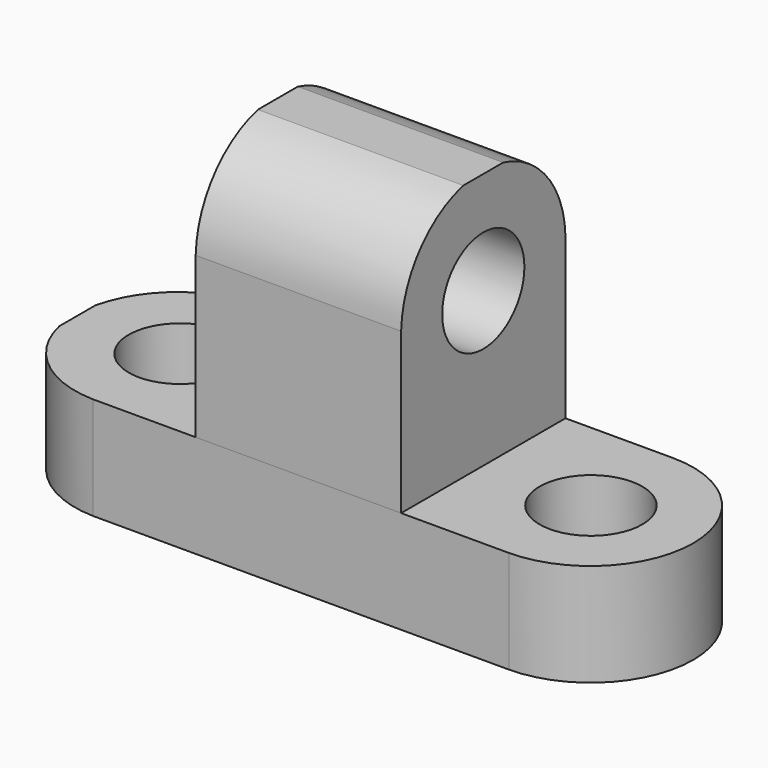
from build123d import *

# Parameters (mm, degrees)
F0_W     = 76.2
F0_H     = 12.7
F1_DEPTH = 25.4
F2_R     = 6.35
F3_DEPTH = 12.7
F4_W     = 25.4
F4_H     = 31.75
F5_DEPTH = 25.4
F6_R     = 6.35
F7_DEPTH = 25.4


with BuildPart() as f1:
    # F0 (on Front) → F1 (new body)
    with BuildSketch(Plane.XZ):
        with Locations((2.5796875684, 6.35)):
            Rectangle(F0_W, F0_H)
    extrude(amount=F1_DEPTH)

    # F2 (on face) → F3 (cut)
    with BuildSketch(Plane.XY.offset(12.7)):
        with Locations((-22.8203124316, -12.7)):
            Circle(F2_R)
        with Locations((27.9796875684, -12.7)):
            Circle(F2_R)
        with BuildLine():
            Line((40.6796875684, 0), (27.9796875684, 0))
            ThreePointArc((27.9796875684, 0), (40.6249785715, -12.7), (27.9796875684, -25.4))
            Line((27.9796875684, -25.4), (40.6796875684, -25.4))
            Line((40.6796875684, -25.4), (40.6796875684, 0))
        make_face()
        with BuildLine():
            ThreePointArc((-35.5203124316, -9.9125084794), (-31.1814662456, -2.8767304466), (-23.4321320361, 0))
            Line((-23.4321320361, 0), (-35.5203124316, 0))
            Line((-35.5203124316, 0), (-35.5203124316, -9.9125084794))
        make_face()
        with BuildLine():
            ThreePointArc((-23.4321320361, -25.4), (-31.1814662456, -22.5232695534), (-35.5203124316, -15.4874915206))
            Line((-35.5203124316, -15.4874915206), (-35.5203124316, -25.4))
            Line((-35.5203124316, -25.4), (-23.4321320361, -25.4))
        make_face()
    extrude(amount=-F3_DEPTH, mode=Mode.SUBTRACT)


with BuildPart() as f5:
    # F4 (on face) → F5 (new body)
    with BuildSketch(Plane.XZ.offset(25.4)):
        with Locations((1.9678679639, 28.575)):
            Rectangle(F4_W, F4_H)
    extrude(amount=-F5_DEPTH)

    # F6 (on face) → F7 (cut)
    with BuildSketch(Plane.YZ.offset(14.6678679639)):
        with Locations((-12.7, 31.75)):
            Circle(F6_R)
        with BuildLine():
            ThreePointArc((-9.6174810531, 44.45), (-2.8013405469, 40.0894216751), (0, 32.4981829179))
            Line((0, 32.4981829179), (0, 44.45))
            Line((0, 44.45), (-9.6174810531, 44.45))
        make_face()
        with BuildLine():
            ThreePointArc((-25.4, 32.4981829179), (-22.5986594531, 40.0894216751), (-15.7825189469, 44.45))
            Line((-15.7825189469, 44.45), (-25.4, 44.45))
            Line((-25.4, 44.45), (-25.4, 32.4981829179))
        make_face()
    extrude(amount=-F7_DEPTH, mode=Mode.SUBTRACT)


solid = Compound([f1.part, f5.part])
